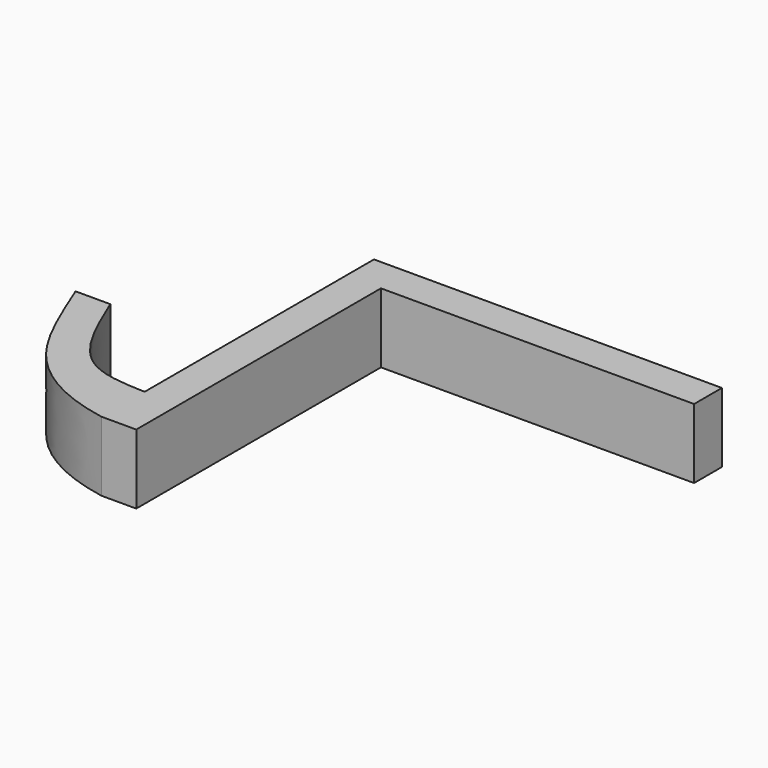
from build123d import *

# Parameters (mm, degrees)
F1_DEPTH = 10


with BuildPart() as f1:
    # F0 (on Top) → F1 (new body)
    with BuildSketch(Plane.XY):
        with BuildLine():
            Line((-2.5, -21.9755824495), (2.5, -21.9755824495))
            Line((2.5, -21.9755824495), (2.5, 21.9755824495))
            Line((2.5, 21.9755824495), (47.5, 21.9755824495))
            Line((47.5, 21.9755824495), (47.5, 26.9755824495))
            Line((47.5, 26.9755824495), (-2.5, 26.9755824495))
            Line((-2.5, 26.9755824495), (-2.5, 21.9755824495))
            Line((-2.5, 21.9755824495), (-2.5, -14.2228389159))
            add(Edge.make_bspline(
                [(-18.8081365824, 0), (-16.7830632678, -4.900555724), (-13.1043678113, -13.8027776567), (-5.7885545713, -14.0925723692), (-2.5, -14.2228389159)],
                knots=[0, 0, 0, 0, 0.5504868067, 1, 1, 1, 1], degree=3))
            Line((-18.8081365824, 0), (-23.8081365824, 0))
            add(Edge.make_bspline(
                [(-2.5, -21.9755824495), (-8.0809096282, -20.9474647123), (-17.3359240555, -16.3424369165), (-21.2225849489, -6.4176707959), (-23.8081365824, 0)],
                knots=[0, 0, 0, 0, 0.4808804759, 1, 1, 1, 1], degree=3))
        make_face()
    extrude(amount=F1_DEPTH)


solid = f1.part
